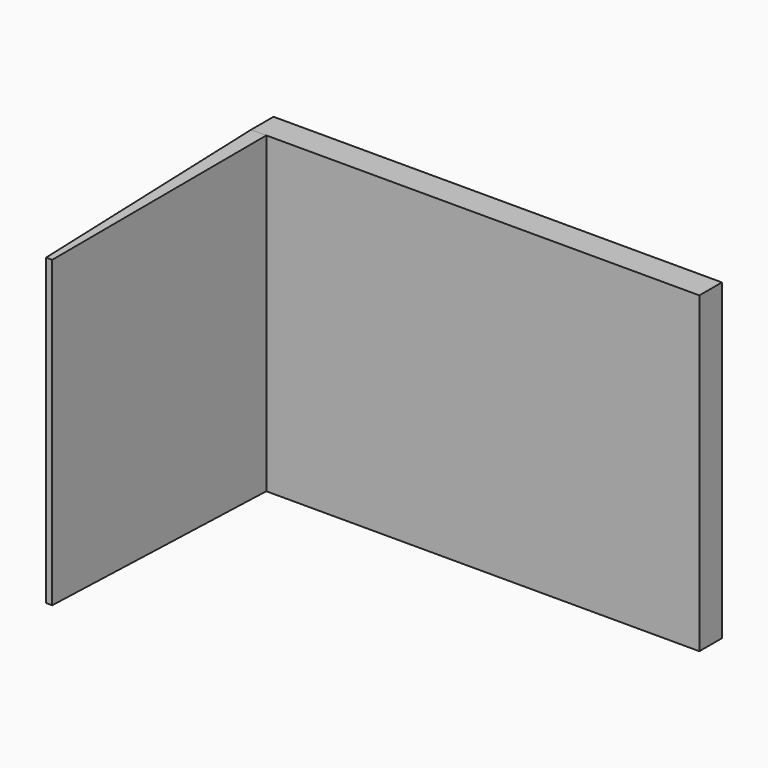
from build123d import *

# Parameters (mm, degrees)
F0_W     = 101.1391505599
F0_H     = 70.6634148955
F1_DEPTH = 6.35
F2_W     = 3.4494325519
F2_H     = 70.6634148955
F3_DEPTH = 59.06905
F3_TAPER = 1


with BuildPart() as f1:
    # F0 (on Front) → F1 (new body)
    with BuildSketch(Plane.XZ):
        Rectangle(F0_W, F0_H)
    extrude(amount=F1_DEPTH)

    # F2 (on face) → F3 (join)
    with BuildSketch(Plane.XZ.offset(6.35)):
        with Locations((-48.844859004, 0)):
            Rectangle(F2_W, F2_H)
    extrude(amount=F3_DEPTH, taper=F3_TAPER)


solid = f1.part
